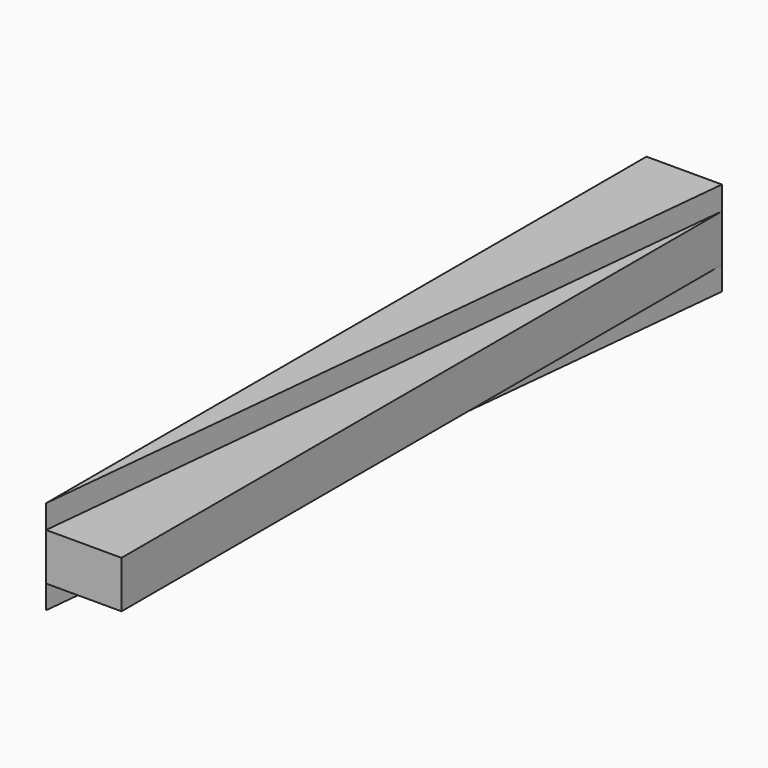
from build123d import *

# Parameters (mm, degrees)
F1_DEPTH = 12.5
F2_DEPTH = 6.25


with BuildPart() as f1:
    # F0 (on Top) → F1 (new body, symmetric)
    with BuildSketch(Plane.XY):
        Polygon((-10, 99.498744), (-10, -99.498744), (10, 99.498744), align=None)
    extrude(amount=F1_DEPTH, both=True)


with BuildPart() as f2:
    # F0 (on Top) → F2 (new body, symmetric)
    with BuildSketch(Plane.XY):
        Polygon((10, 99.498744), (-10, -99.498744), (10, -99.498744), align=None)
    extrude(amount=F2_DEPTH, both=True)


solid = Compound([f1.part, f2.part])
